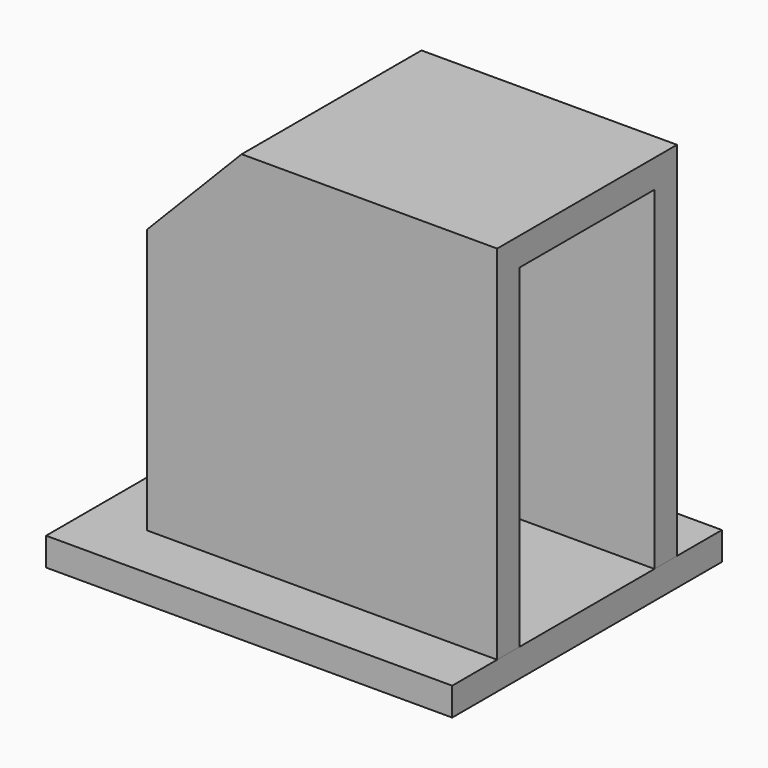
from build123d import *

# Parameters (mm, degrees)
F1_DEPTH = 50.8
F2_T     = -6.35
F3_W     = 91.786147
F3_H     = 76.2
F4_DEPTH = 6.35


with BuildPart() as f1:
    # F0 (on Front) → F1 (new body)
    with BuildSketch(Plane.XZ):
        Polygon((38.380861, 43.561175), (-19.363867, 43.561175), (-40.705286, 21.657981), (-40.705286, -38.248271), (38.380861, -38.248271), align=None)
    extrude(amount=F1_DEPTH)

    # F2
    f2_openings = [f1.faces().sort_by_distance(p)[0] for p in [
        (38.380861, -25.4, 2.656452),
        (-1.162212, -25.4, -38.248271),
    ]]
    offset(amount=F2_T, openings=f2_openings)

    # F3 (on face) → F4 (join)
    with BuildSketch(Plane(origin=(0, 0, -38.248271), x_dir=(1, 0, 0), z_dir=(0, 0, -1))):
        with Locations((-7.512213, 25.4)):
            Rectangle(F3_W, F3_H)
    extrude(amount=F4_DEPTH)


solid = f1.part
